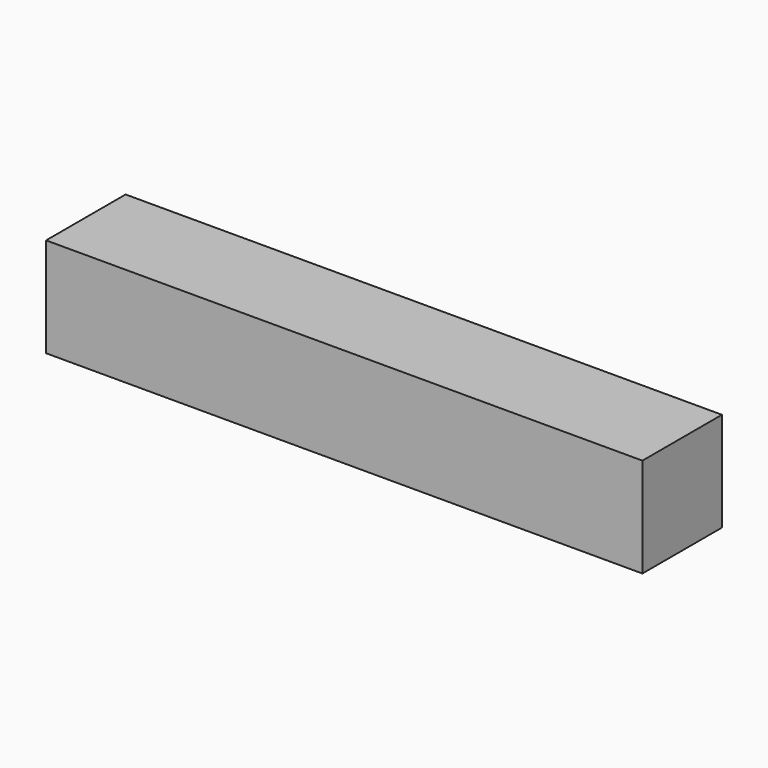
from build123d import *

# Parameters (mm, degrees)
SKETCH_W  = 10
SKETCH_H  = 10
PAD_DEPTH = 60


with BuildPart() as part:
    # Sketch → Pad (new body)
    with BuildSketch(Plane.YZ):
        with Locations((-5, 5)):
            Rectangle(SKETCH_W, SKETCH_H)
    extrude(amount=PAD_DEPTH)


solid = part.part
